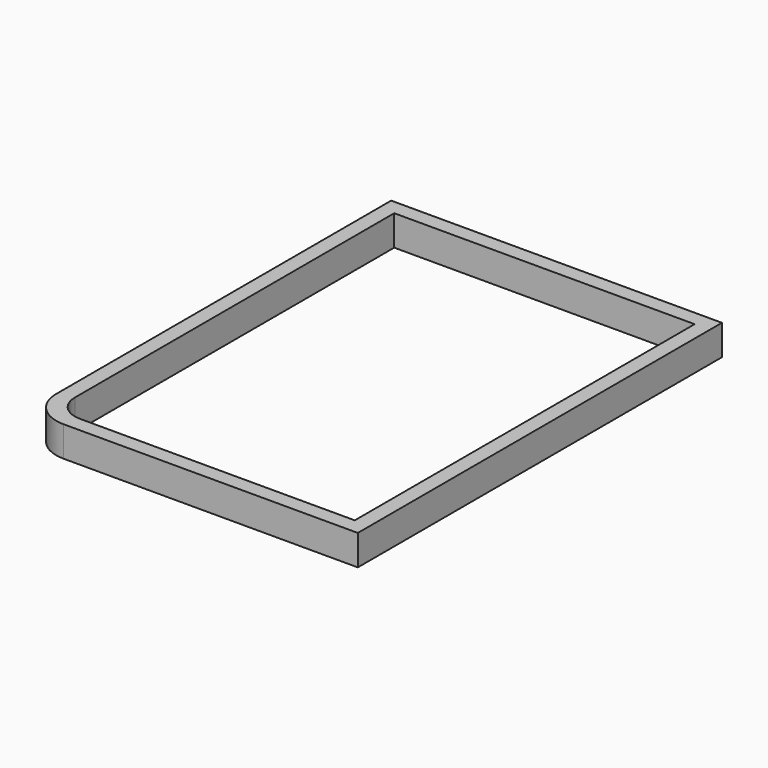
from build123d import *

# Parameters (mm, degrees)
PAD_DEPTH = 5


with BuildPart() as part:
    # Sketch → Pad (new body, symmetric)
    with BuildSketch(Plane.XY):
        with BuildLine():
            Line((-42.469309, -75), (54.5, -75))
            Line((54.5, -75), (54.5, 75))
            Line((54.5, 75), (-54.5, 75))
            Line((-54.5, 75), (-54.5, -62.969309))
            ThreePointArc((-54.5, -62.969309), (-50.976292, -71.476292), (-42.469309, -75))
        make_face()
        with BuildLine():
            Line((-41.055096, -70), (49.5, -70))
            Line((49.5, -70), (49.5, 70))
            Line((49.5, 70), (-49.5, 70))
            Line((-49.5, 70), (-49.5, -61.555096))
            ThreePointArc((-49.5, -61.555096), (-47.026545, -67.526545), (-41.055096, -70))
        make_face(mode=Mode.SUBTRACT)
    extrude(amount=PAD_DEPTH, both=True)


solid = part.part
